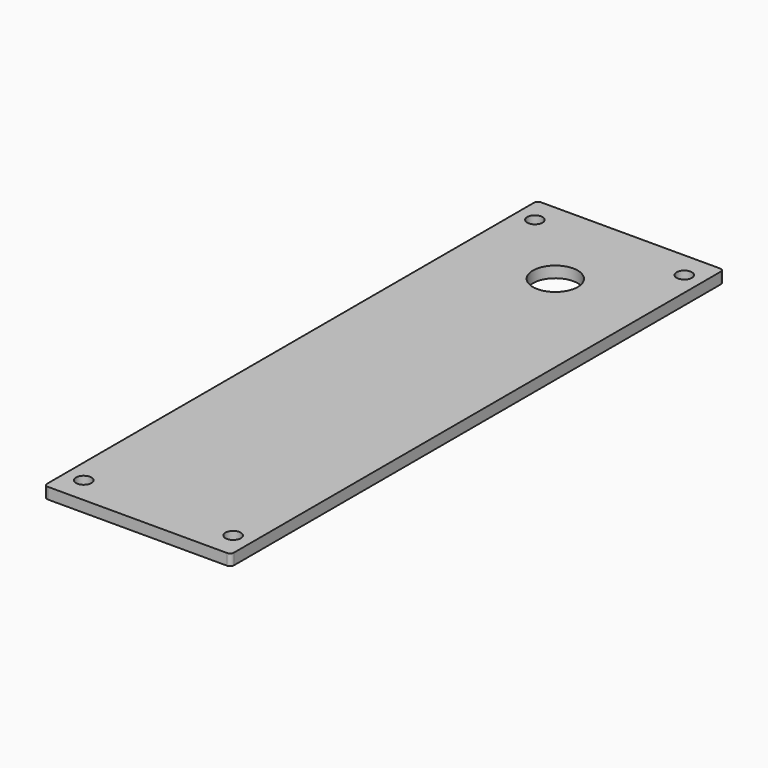
from build123d import *

# Parameters (mm, degrees)
F0_R     = 2.05
F1_DEPTH = 3
F2_R     = 6
F3_DEPTH = 25


with BuildPart() as f1:
    # F0 (on Top) → F1 (new body)
    with BuildSketch(Plane.XY):
        with BuildLine():
            Line((-11.856859, 99.307182), (-59.856859, 99.307182))
            ThreePointArc((-59.856859, 99.307182), (-60.563965, 99.014289), (-60.856859, 98.307182))
            Line((-60.856859, 98.307182), (-60.856859, -64.692818))
            ThreePointArc((-60.856859, -64.692818), (-60.563965, -65.399925), (-59.856859, -65.692818))
            Line((-59.856859, -65.692818), (-11.856859, -65.692818))
            ThreePointArc((-11.856859, -65.692818), (-11.149752, -65.399925), (-10.856859, -64.692818))
            Line((-10.856859, -64.692818), (-10.856859, 98.307182))
            ThreePointArc((-10.856859, 98.307182), (-11.149752, 99.014289), (-11.856859, 99.307182))
        make_face()
        with Locations((-55.856859, -58.692818)):
            Circle(F0_R, mode=Mode.SUBTRACT)
        with Locations((-15.856859, -58.692818)):
            Circle(F0_R, mode=Mode.SUBTRACT)
        with Locations((-55.856859, 92.307182)):
            Circle(F0_R, mode=Mode.SUBTRACT)
        with Locations((-15.856859, 92.307182)):
            Circle(F0_R, mode=Mode.SUBTRACT)
    extrude(amount=F1_DEPTH)

    # F2 (on Top) → F3 (cut)
    with BuildSketch(Plane.XY):
        with Locations((-35.856859, 74.143015)):
            Circle(F2_R)
    extrude(amount=F3_DEPTH, mode=Mode.SUBTRACT)


solid = f1.part
